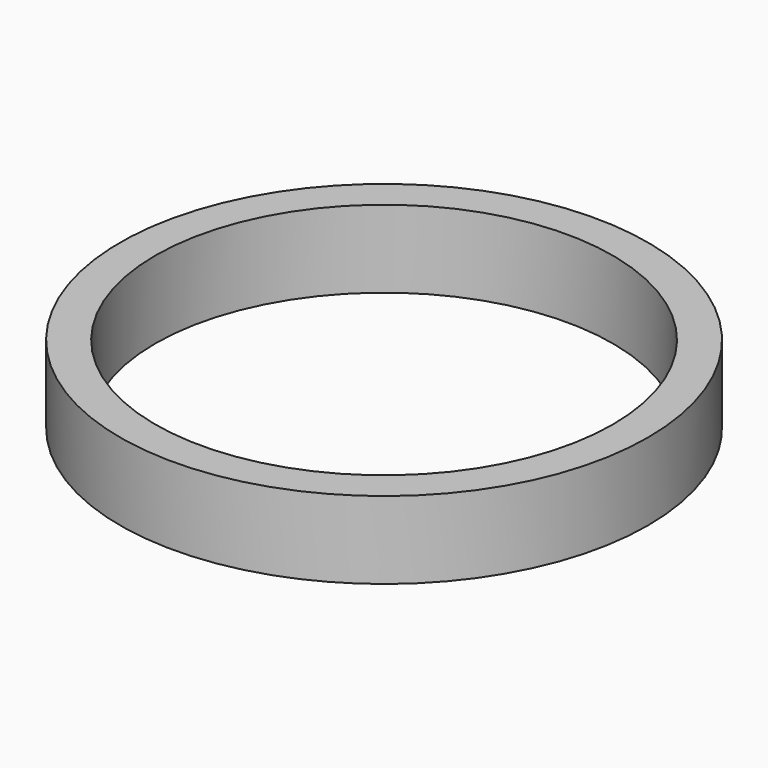
from build123d import *

# Parameters (mm, degrees)
SKETCH_R   = 37.5
SKETCH_R_2 = 32.5
PAD_DEPTH  = 11


with BuildPart() as part:
    # Sketch → Pad (new body)
    with BuildSketch(Plane.XY):
        Circle(SKETCH_R)
        Circle(SKETCH_R_2, mode=Mode.SUBTRACT)
    extrude(amount=PAD_DEPTH)


solid = part.part
